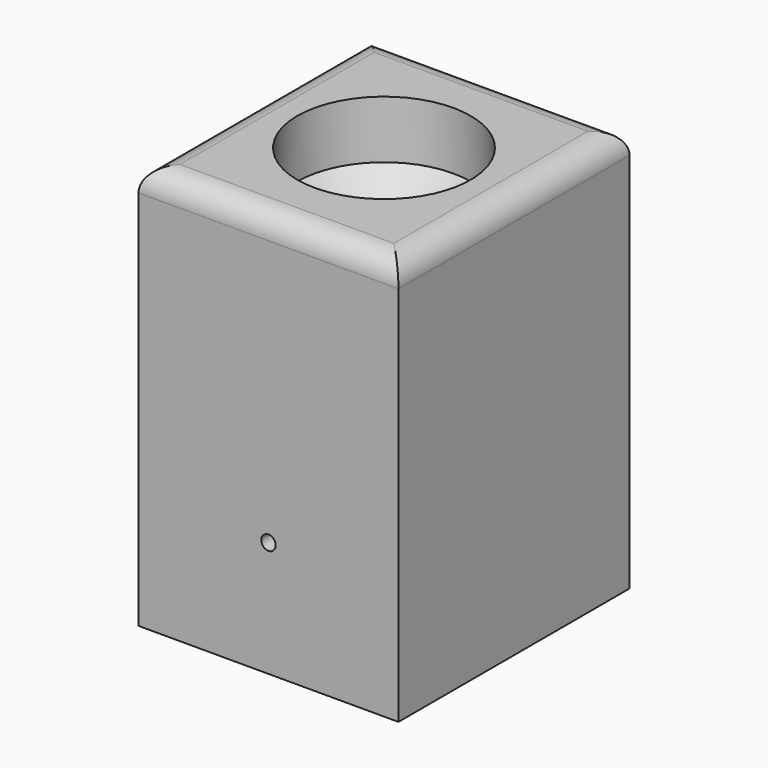
from build123d import *

# Parameters (mm, degrees)
F0_W     = 57.15
F0_H     = 63.5
F1_DEPTH = 88.9
F3_D     = 38.1
F3_DEPTH = 12.7
F3_TIP   = 11.4463947925
F4_R     = 5.08
F6_D     = 3.175
F6_DEPTH = 12.7
F6_TIP   = 0.9538662327
F8_D     = 3.175


with BuildPart() as f1:
    # F0 (on Top) → F1 (new body)
    with BuildSketch(Plane.XY):
        with Locations((28.575, -31.75)):
            Rectangle(F0_W, F0_H)
    extrude(amount=F1_DEPTH)

    # F3
    with Locations(Plane.XY.offset(88.9)):
        with Locations((28.575, -31.75)):
            Hole(F3_D / 2, depth=F3_DEPTH)
            with Locations((0, 0, -(F3_DEPTH + F3_TIP / 2))):  # 118° drill point
                Cone(0, F3_D / 2, F3_TIP, mode=Mode.SUBTRACT)

    # F4
    f4_edges = [f1.edges().sort_by_distance(p)[0] for p in [
        (57.15, -31.75, 88.9),
        (28.575, 0, 88.9),
        (0, -31.75, 88.9),
        (28.575, -63.5, 88.9),
    ]]
    fillet(f4_edges, radius=F4_R)

    # F6
    with Locations(Plane.XZ.offset(63.5)):
        with Locations((28.575, 25.4)):
            Hole(F6_D / 2, depth=F6_DEPTH)
            with Locations((0, 0, -(F6_DEPTH + F6_TIP / 2))):  # 118° drill point
                Cone(0, F6_D / 2, F6_TIP, mode=Mode.SUBTRACT)

    # F8 (through all)
    with Locations(Plane(origin=(0, 0, 0), x_dir=(1, 0, 0), z_dir=(0, 0, -1))):
        with Locations((41.275, 41.275), (15.875, 41.275)):
            Hole(F8_D / 2)


solid = f1.part
